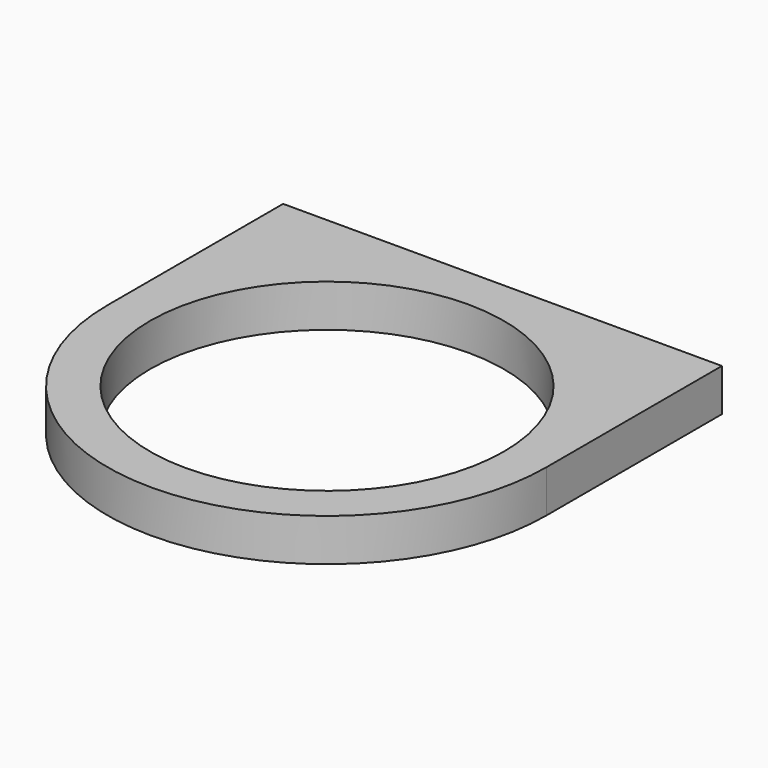
from build123d import *

# Parameters (mm, degrees)
F0_R     = 12.5
F1_DEPTH = 1.5


with BuildPart() as f1:
    # F0 (on Top) → F1 (new body, symmetric)
    with BuildSketch(Plane.XY):
        with BuildLine():
            Line((-15.5, 15.5), (-15.5, 0))
            ThreePointArc((-15.5, 0), (0, -15.5), (15.5, 0))
            Line((15.5, 0), (15.5, 15.5))
            Line((15.5, 15.5), (12.5, 15.5))
            Line((12.5, 15.5), (0, 15.5))
            Line((0, 15.5), (-12.5, 15.5))
            Line((-12.5, 15.5), (-15.5, 15.5))
        make_face()
        Circle(F0_R, mode=Mode.SUBTRACT)
    extrude(amount=F1_DEPTH, both=True)


solid = f1.part
